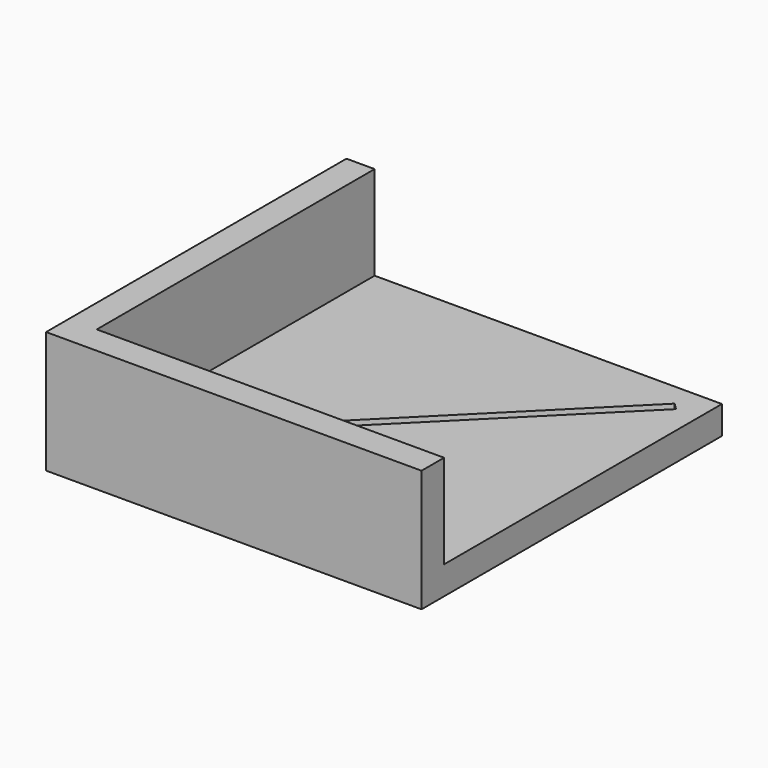
from build123d import *

# Parameters (mm, degrees)
F1_DEPTH = 7.62
F3_DEPTH = 25.4


with BuildPart() as f1:
    # F0 (on Top) → F1 (new body)
    with BuildSketch(Plane.XY):
        Polygon((-43.18, -50.8), (50.8, -50.8), (50.8, -43.18), (-41.383949, -43.18), (-43.18, -43.18), align=None)
        Polygon((-49.003949, -50.8), (-43.18, -50.8), (-43.18, -43.18), (-50.8, -43.18), (-50.8, -49.003949), (-50.8, -50.8), align=None)
        Polygon((-41.383949, -43.18), (50.8, -43.18), (50.8, 42.910773), (50.8, 49.003949), (44.706825, 42.910773), align=None)
        Polygon((-50.8, -43.18), (-43.18, -43.18), (-43.18, -41.383949), (-43.18, 50.8), (-50.8, 50.8), align=None)
        Polygon((-43.18, 50.8), (-43.18, -41.383949), (42.9001, 44.696152), (49.003949, 50.8), (42.9001, 50.8), align=None)
        Polygon((44.706825, 42.910773), (50.8, 49.003949), (50.8, 50.8), (49.003949, 50.8), (42.9001, 44.696152), (44.685479, 42.910773), align=None)
    extrude(amount=F1_DEPTH)

    # F2 (on face) → F3 (join)
    with BuildSketch(Plane.XY.offset(7.62)):
        Polygon((-50.8, -43.18), (-50.8, -50.8), (-43.18, -50.8), (50.8, -50.8), (50.8, -43.18), (-41.383949, -43.18), (-43.18, -43.18), (-43.18, -41.383949), (-43.18, 50.8), (-50.8, 50.8), align=None)
    extrude(amount=F3_DEPTH)


solid = f1.part
